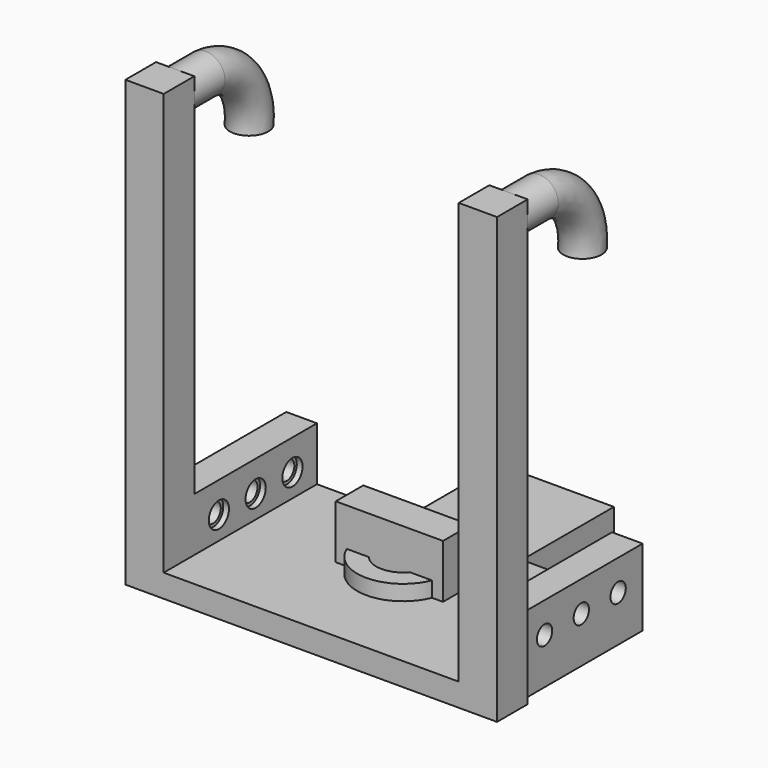
from build123d import *

# Parameters (mm, degrees)
SKETCH_W        = 38.5
SKETCH_H        = 20
SKETCH_R        = 1.45
PAD_DEPTH       = 3
SKETCH001_W     = 4
SKETCH001_H     = 10
PAD001_DEPTH    = 10
SKETCH002_R     = 1.25
POCKET_DEPTH    = 46.501
SKETCH003_R     = 1.65
POCKET001_DEPTH = 20
PAD002_DEPTH    = 5
SKETCH005_R     = 2.5
SKETCH007_W     = 15
SKETCH007_H     = 15
SKETCH007_R     = 3.1
PAD003_DEPTH    = 3
SKETCH008_R     = 6
SKETCH008_R_2   = 3.5
PAD004_DEPTH    = 5
PAD005_DEPTH    = 3
SKETCH010_W     = 14
SKETCH010_H     = 4.5
PAD006_DEPTH    = 10


with BuildPart() as body:
    # Sketch → Pad (new body)
    with BuildSketch(Plane.XY):
        Rectangle(SKETCH_W, SKETCH_H)
        with Locations((0, 6)):
            Circle(SKETCH_R, mode=Mode.SUBTRACT)
    extrude(amount=PAD_DEPTH)

    # Sketch001 → Pad001 (join, symmetric)
    with BuildSketch(Plane.XZ):
        with Locations((21.25, 5)):
            Rectangle(SKETCH001_W, SKETCH001_H)
        with Locations((-21.25, 5)):
            Rectangle(SKETCH001_W, SKETCH001_H)
    extrude(amount=PAD001_DEPTH, both=True)

    # Sketch002 (on Face9 of Pad001) → Pocket (cut, through all)
    with BuildSketch(Plane(origin=(-23.25, 0, 0), x_dir=(0, -1, 0), z_dir=(-1, 0, 0))):
        with Locations((-6, 6)):
            Circle(SKETCH002_R)
        with Locations((6, 6)):
            Circle(SKETCH002_R)
        with Locations((0, 6)):
            Circle(SKETCH002_R)
    extrude(amount=-POCKET_DEPTH, mode=Mode.SUBTRACT)

    # Sketch003 → Pocket001 (cut, symmetric)
    with BuildSketch(Plane.YZ):
        with Locations((0, 6)):
            Circle(SKETCH003_R)
        with Locations((6, 6)):
            Circle(SKETCH003_R)
        with Locations((-6, 6)):
            Circle(SKETCH003_R)
    extrude(amount=POCKET001_DEPTH, both=True, mode=Mode.SUBTRACT)

    # Sketch004 (on Face14 of Pocket001) → Pad002 (join)
    with BuildSketch(Plane.XZ.offset(10)):
        Polygon((19.25, 0), (24.25, 0), (24.25, 58), (19.25, 58), (19.25, 3), (-19.25, 3), (-19.25, 58), (-24.25, 58), (-24.25, 0), (-19.25, 0), align=None)
    extrude(amount=PAD002_DEPTH)

    # AdditivePipe: sweep along a path in Sketch006
    with BuildLine(Plane.YZ.offset(-21.75)) as additivepipe_path:
        Line((-10, 55.55), (-5, 55.55))
        ThreePointArc((-5, 55.55), (0.376283, 52.619826), (2.105943, 46.746275))
    # Sketch005 (on Face17 of Pad002) → AdditivePipe (sweep)
    with BuildSketch(Plane(origin=(0, -10, 0), x_dir=(-1, 0, 0), z_dir=(0, 1, 0))):
        with Locations((21.75, 55.5)):
            Circle(SKETCH005_R)
    additivepipe = sweep(path=additivepipe_path.line)

    # Mirrored: AdditivePipe across Sketch005 V_Axis
    add(additivepipe.mirror(Plane(origin=(0, -10, 0), x_dir=(0, 1, 0), z_dir=(-1, 0, 0))))

    # Sketch007 → Pad003 (join)
    with BuildSketch(Plane.XY):
        with Locations((0, 17.5)):
            Rectangle(SKETCH007_W, SKETCH007_H)
        with Locations((0, 14)):
            Circle(SKETCH007_R, mode=Mode.SUBTRACT)
    extrude(amount=PAD003_DEPTH)


with BuildPart() as spacer:
    # Sketch008 → Pad004 (new body)
    with BuildSketch(Plane.XY):
        Circle(SKETCH008_R)
        Circle(SKETCH008_R_2, mode=Mode.SUBTRACT)
    extrude(amount=PAD004_DEPTH)


with BuildPart() as bits:
    # Sketch009 → Pad005 (new body)
    with BuildSketch(Plane.XY):
        Polygon((-1.299038, -2.25), (1.299038, -2.25), (2.598076, 0), (1.299038, 2.25), (-1.299038, 2.25), (-2.598076, 0), align=None)
    extrude(amount=-PAD005_DEPTH)

    # Sketch010 → Pad006 (join)
    with BuildSketch(Plane.XY):
        Rectangle(SKETCH010_W, SKETCH010_H)
    extrude(amount=PAD006_DEPTH)


solid = Compound([body.part, spacer.part, bits.part])
